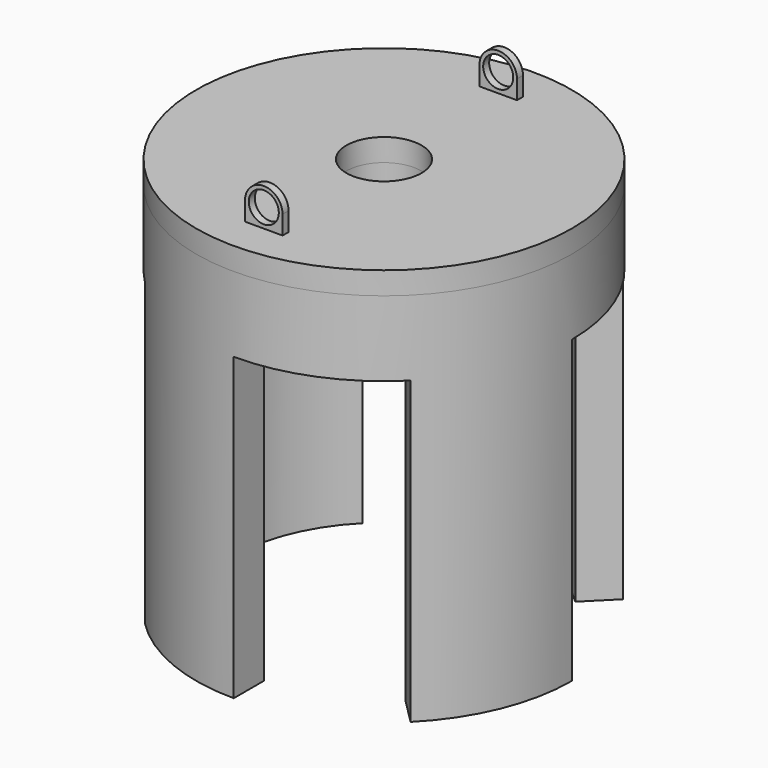
from build123d import *

# Parameters (mm, degrees)
F0_R      = 31.75
F1_DEPTH  = 63.5
F2_R      = 25.4
F3_DEPTH  = 50.8
F5_DEPTH  = 50.8
F6_R      = 31.75
F7_DEPTH  = 3.81
F8_R      = 6.35
F9_DEPTH  = 67.311
F10_R     = 6.35
F11_DEPTH = 63.501
F12_R     = 2.54
F13_DEPTH = 25.4
F14_DEPTH = 24.13


with BuildPart() as f1:
    # F0 (on Top) → F1 (new body)
    with BuildSketch(Plane.XY):
        Circle(F0_R)
    extrude(amount=F1_DEPTH)

    # F2 (on Top) → F3 (cut)
    with BuildSketch(Plane.XY):
        Circle(F2_R)
    extrude(amount=F3_DEPTH, mode=Mode.SUBTRACT)

    # F4 (on Top) → F5 (cut)
    with BuildSketch(Plane.XY):
        with BuildLine():
            Line((-22.4506403027, -22.4506403027), (-17.9605122421, -17.9605122421))
            ThreePointArc((-17.9605122421, -17.9605122421), (-23.4665401258, -9.7201591821), (-25.4, 0))
            Line((-25.4, 0), (-31.75, 0))
            ThreePointArc((-31.75, 0), (-29.3331751572, -12.1501989776), (-22.4506403027, -22.4506403027))
        make_face()
        with BuildLine():
            Line((22.4506403027, -22.4506403027), (17.9605122421, -17.9605122421))
            ThreePointArc((17.9605122421, -17.9605122421), (9.7201591821, -23.4665401258), (0, -25.4))
            Line((0, -25.4), (0, -31.75))
            ThreePointArc((0, -31.75), (12.1501989776, -29.3331751572), (22.4506403027, -22.4506403027))
        make_face()
        with BuildLine():
            ThreePointArc((17.9605122421, 17.9605122421), (23.4665401258, 9.7201591821), (25.4, 0))
            Line((25.4, 0), (31.75, 0))
            ThreePointArc((31.75, 0), (29.3331751572, 12.1501989776), (22.4506403027, 22.4506403027))
            Line((22.4506403027, 22.4506403027), (17.9605122421, 17.9605122421))
        make_face()
        with BuildLine():
            ThreePointArc((-17.9605122421, 17.9605122421), (-9.7201591821, 23.4665401258), (0, 25.4))
            Line((0, 25.4), (0, 31.75))
            ThreePointArc((0, 31.75), (-12.1501989776, 29.3331751572), (-22.4506403027, 22.4506403027))
            Line((-22.4506403027, 22.4506403027), (-17.9605122421, 17.9605122421))
        make_face()
    extrude(amount=F5_DEPTH, mode=Mode.SUBTRACT)


with BuildPart() as f7:
    # F6 (on face) → F7 (new body)
    with BuildSketch(Plane.XY.offset(63.5)):
        Circle(F6_R)
    extrude(amount=F7_DEPTH)


with BuildPart() as f9_tool:
    # F8 (on face) → F9 (new body, through all)
    with BuildSketch(Plane.XY.offset(67.31)):
        Circle(F8_R)
    extrude(amount=-F9_DEPTH)


with BuildPart() as f1_1:
    add(f1.part)

    # F9: cut by f9_tool
    add(f9_tool.part, mode=Mode.SUBTRACT)

    # F10 (on face) → F11 (cut, through all)
    with BuildSketch(Plane.XY.offset(63.5)):
        Circle(F10_R)
    extrude(amount=-F11_DEPTH, mode=Mode.SUBTRACT)


with BuildPart() as f7_1:
    add(f7.part)

    # F9: cut by f9_tool
    add(f9_tool.part, mode=Mode.SUBTRACT)

    # F12 (on Front) → F13 (join, symmetric)
    with BuildSketch(Plane.XZ):
        with BuildLine():
            Line((-3.175, 70.485), (-3.175, 67.31))
            Line((-3.175, 67.31), (3.175, 67.31))
            Line((3.175, 67.31), (3.175, 70.485))
            ThreePointArc((3.175, 70.485), (0, 73.66), (-3.175, 70.485))
        make_face()
        with Locations((0, 70.485)):
            Circle(F12_R, mode=Mode.SUBTRACT)
    extrude(amount=F13_DEPTH, both=True)

    # F12 (on Front) → F14 (cut, symmetric)
    with BuildSketch(Plane.XZ):
        with BuildLine():
            Line((-3.175, 70.485), (-3.175, 67.31))
            Line((-3.175, 67.31), (3.175, 67.31))
            Line((3.175, 67.31), (3.175, 70.485))
            ThreePointArc((3.175, 70.485), (0, 73.66), (-3.175, 70.485))
        make_face()
        with Locations((0, 70.485)):
            Circle(F12_R, mode=Mode.SUBTRACT)
    extrude(amount=F14_DEPTH, both=True, mode=Mode.SUBTRACT)


solid = Compound([f1_1.part, f7_1.part])
